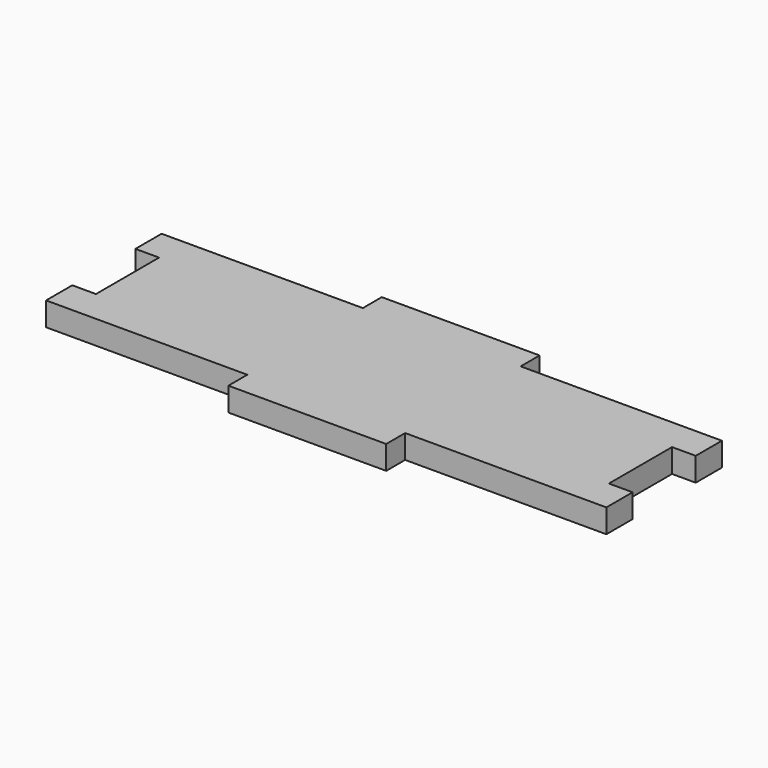
from build123d import *

# Parameters (mm, degrees)
F0_W     = 20
F0_H     = 3
F1_DEPTH = 3


with BuildPart() as f1:
    # F0 (on Top) → F1 (new body)
    with BuildSketch(Plane.XY):
        with Locations((0, 10.65)):
            Rectangle(F0_W, F0_H)
        with Locations((0, -10.65)):
            Rectangle(F0_W, F0_H)
        with Locations((0, 7.65)):
            Rectangle(F0_W, F0_H)
        with Locations((0, -7.65)):
            Rectangle(F0_W, F0_H)
        Polygon((-10, 9.15), (-35.5, 9.15), (-35.5, 5), (-32.5, 5), (-32.5, -5), (-35.5, -5), (-35.5, -9.15), (-10, -9.15), (-10, -6.15), (10, -6.15), (10, -9.15), (35.5, -9.15), (35.5, -5), (32.5, -5), (32.5, 5), (35.5, 5), (35.5, 9.15), (10, 9.15), (10, 6.15), (-10, 6.15), align=None)
    extrude(amount=F1_DEPTH)


solid = f1.part
